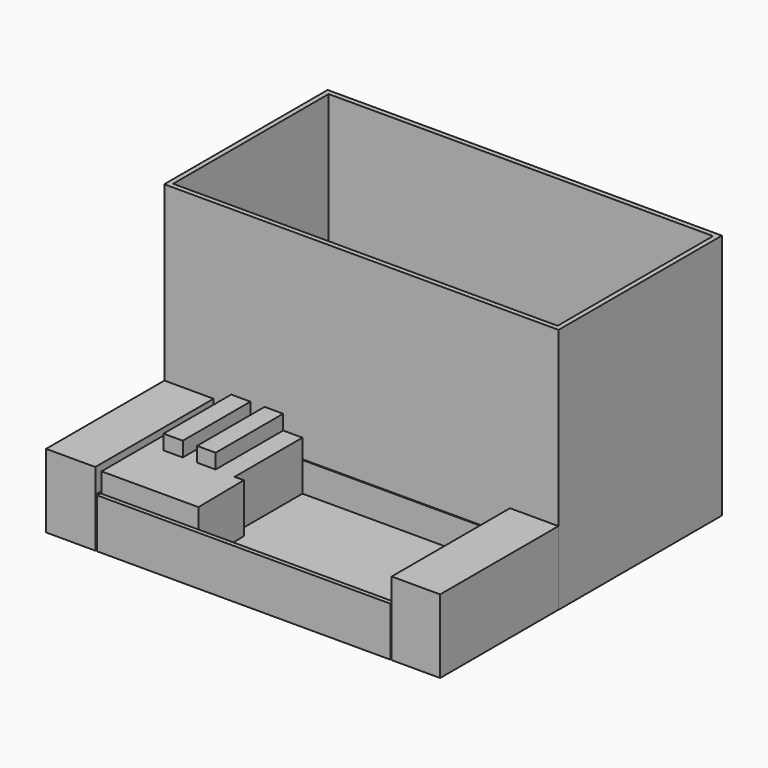
from build123d import *

# Parameters (mm, degrees)
F0_W      = 203.2
F0_H      = 105.2184881944
F1_DEPTH  = 127
F2_T      = -2.54
F4_W      = 24.9819085002
F4_H      = 37.9526205361
F4_W_2    = 151.2214764953
F4_H_2    = 25.4
F5_DEPTH  = 76.2
F6_W      = 148.822195828
F6_H      = 73.4275504947
F7_DEPTH  = 15.24
F9_DEPTH  = 25.4
F10_DEPTH = 33.02


with BuildPart() as f1:
    # F0 (on Top) → F1 (new body)
    with BuildSketch(Plane.XY):
        with Locations((-0.9812270495, 52.6092440972)):
            Rectangle(F0_W, F0_H)
    extrude(amount=F1_DEPTH)

    # F2
    f2_openings = [f1.faces().sort_by_distance(p)[0] for p in [
        (-0.981227, 52.609244, 127),
    ]]
    offset(amount=F2_T, openings=f2_openings)

    # F4 (on face) → F5 (join)
    with BuildSketch(Plane.XZ):
        Polygon((-77.0476683974, 0), (-77.0476683974, 25.4), (-77.1812270495, 25.4), (-77.1812270495, 37.9526205361), (-102.5303602219, 37.9526205361), (-102.5303602219, 0), align=None)
        with Locations((88.0557782948, 18.976310268)):
            Rectangle(F4_W, F4_H)
        with Locations((-0.6120987236, 12.7)):
            Rectangle(F4_W_2, F4_H_2)
    extrude(amount=F5_DEPTH)

    # F6 (on face) → F7 (cut)
    with BuildSketch(Plane.XY.offset(25.4)):
        with Locations((-1.2982971966, -37.2778810561)):
            Rectangle(F6_W, F6_H)
    extrude(amount=-F7_DEPTH, mode=Mode.SUBTRACT)

    # F8 (on face) → F9 (join)
    with BuildSketch(Plane.XY.offset(10.16)):
        Polygon((-50.4458248615, -0.5641058087), (-57.7319078147, -0.5641058087), (-57.7319078147, -44.1493541002), (-59.9848367274, -44.1493541002), (-59.9848367274, -73.9916563034), (-48.2489354908, -73.9916563034), (-48.2489354908, -44.0681837499), (-50.4458248615, -44.0681837499), align=None)
        Polygon((-67.6321908832, -44.1493541002), (-67.6321908832, -0.5641058087), (-75.7093951106, -0.5641058087), (-75.7093951106, -73.9916563034), (-59.9848367274, -73.9916563034), (-59.9848367274, -44.1493541002), align=None)
        Polygon((-30.921860598, -0.5641058087), (-36.0744632781, -0.5641058087), (-36.0744632781, -73.9916563034), (-25.769257918, -73.9916563034), (-26.1848908849, -44.2901365459), (-30.921860598, -44.2901365459), align=None)
        Polygon((-36.0744632781, -0.5641058087), (-40.8624187112, -0.5641058087), (-40.8624187112, -44.0681837499), (-48.2489354908, -44.0681837499), (-48.2489354908, -73.9916563034), (-36.0744632781, -73.9916563034), align=None)
    extrude(amount=F9_DEPTH)

    # F10 (add): faces of the model
    f10_faces = [f1.faces().sort_by_distance(p)[0] for p in [
        (-62.682049349, -22.3567299545, 10.16),
        (-45.6541217864, -22.3161447793, 10.16),
    ]]
    extrude(f10_faces, amount=F10_DEPTH)


solid = f1.part
